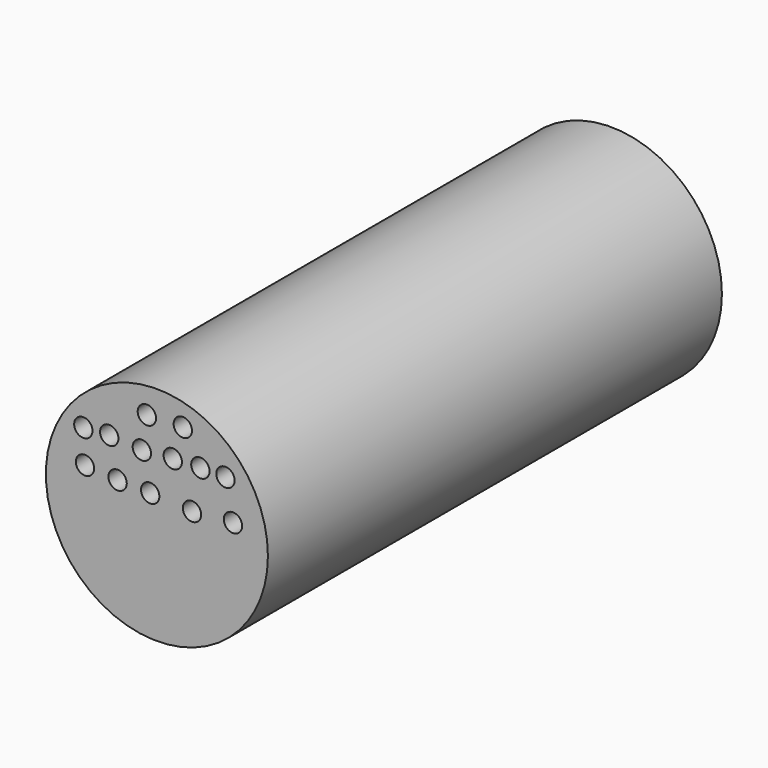
from build123d import *

# Parameters (mm, degrees)
F0_R     = 38.428231
F1_DEPTH = 196.42528
F3_D     = 6.35


with BuildPart() as f1:
    # F0 (on Front) → F1 (new body)
    with BuildSketch(Plane.XZ):
        Circle(F0_R)
    extrude(amount=F1_DEPTH)

    # F3 (through all)
    with Locations(Plane(origin=(0, 0, 0), x_dir=(-1, 0, 0), z_dir=(0, 1, 0))):
        with Locations((2.314938, 5.932025), (-12.153418, 5.063924), (-26.332406, 6.221393), (13.600252, 6.221393), (24.885569, 7.089494), (25.464304, 18.37481), (16.493926, 18.953545), (5.208608, 18.085442), (-5.497974, 18.953545), (-15.047089, 19.242913), (-23.728102, 19.242913), (-8.97038, 29.660128), (3.472406, 29.370761)):
            Hole(F3_D / 2)


solid = f1.part
